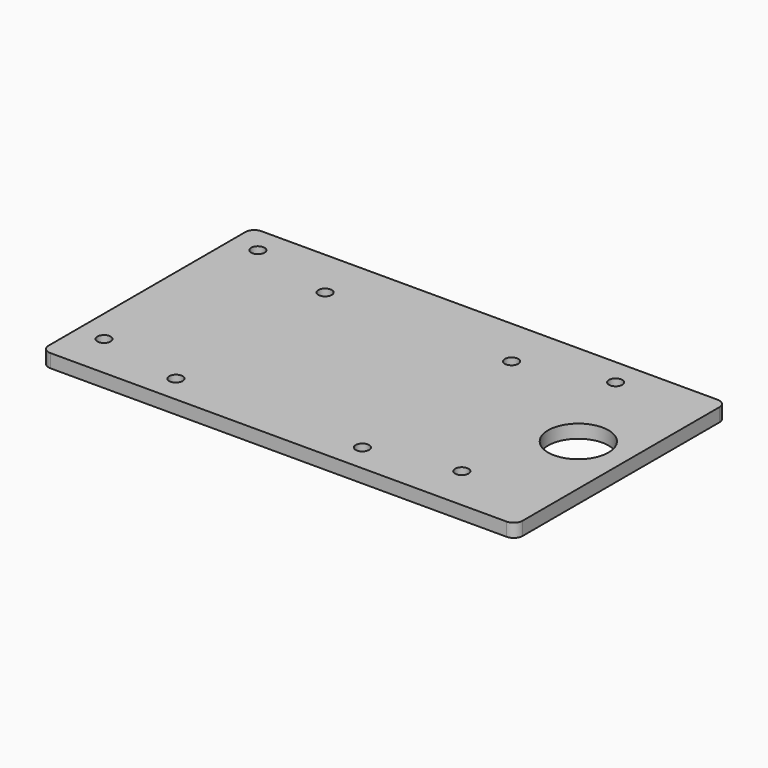
from build123d import *

# Parameters (mm, degrees)
SKETCH_R      = 1.5
SKETCH_R_2    = 6.75
PAD_DEPTH     = 3
SKETCH001_R   = 4
SKETCH001_R_2 = 1.5
PAD001_DEPTH  = 4
FILLET_R      = 2


with BuildPart() as part:
    # Sketch → Pad (new body)
    with BuildSketch(Plane.XY):
        Polygon((46, 27), (-46, 27), (-46, -28), (-46, -32), (60, -32), (60, -28), (60, 27), align=None)
        with Locations((20.85, 15.85)):
            Circle(SKETCH_R, mode=Mode.SUBTRACT)
        with Locations((-20.85, -25.85)):
            Circle(SKETCH_R, mode=Mode.SUBTRACT)
        with Locations((20.85, -25.85)):
            Circle(SKETCH_R, mode=Mode.SUBTRACT)
        with Locations((-20.85, 15.85)):
            Circle(SKETCH_R, mode=Mode.SUBTRACT)
        with Locations((48.85, -0.5)):
            Circle(SKETCH_R_2, mode=Mode.SUBTRACT)
        with Locations((-40, 21)):
            Circle(SKETCH_R, mode=Mode.SUBTRACT)
        with Locations((40, 21)):
            Circle(SKETCH_R, mode=Mode.SUBTRACT)
        with Locations((-40, -22)):
            Circle(SKETCH_R, mode=Mode.SUBTRACT)
        with Locations((40, -22)):
            Circle(SKETCH_R, mode=Mode.SUBTRACT)
    extrude(amount=PAD_DEPTH)

    # Sketch001 (on Face2 of Pad) → Pad001 (join)
    with BuildSketch(Plane(origin=(0, 0, 0), x_dir=(1, 0, 0), z_dir=(0, 0, -1))):
        with Locations((-40, 22)):
            Circle(SKETCH001_R)
        with Locations((-40, 22)):
            Circle(SKETCH001_R_2, mode=Mode.SUBTRACT)
        with Locations((40, 22)):
            Circle(SKETCH001_R)
        with Locations((40, 22)):
            Circle(SKETCH001_R_2, mode=Mode.SUBTRACT)
        with Locations((-40, -21)):
            Circle(SKETCH001_R)
        with Locations((-40, -21)):
            Circle(SKETCH001_R_2, mode=Mode.SUBTRACT)
        with Locations((40, -21)):
            Circle(SKETCH001_R)
        with Locations((40, -21)):
            Circle(SKETCH001_R_2, mode=Mode.SUBTRACT)
    extrude(amount=PAD001_DEPTH)

    # Fillet
    fillet_edges = [part.edges().sort_by_distance(p)[0] for p in [
        (-46, 27, 1.5),
        (-46, -32, 1.5),
        (60, -32, 1.5),
        (60, 27, 1.5),
    ]]
    fillet(fillet_edges, radius=FILLET_R)


solid = part.part
